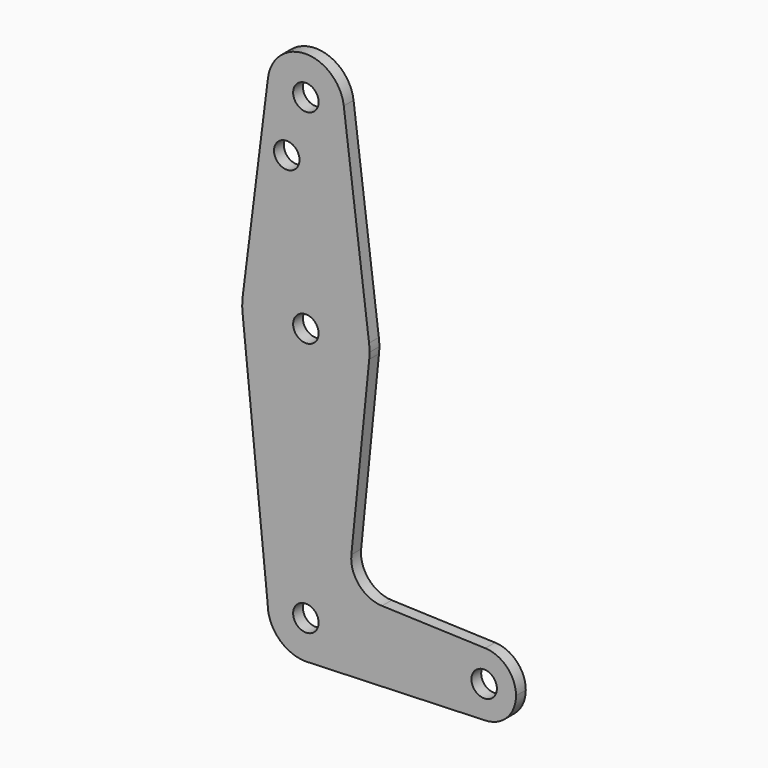
from build123d import *

# Parameters (mm, degrees)
F0_R     = 3.175
F1_DEPTH = 3.048


with BuildPart() as f1:
    # F0 (on Front) → F1 (new body)
    with BuildSketch(Plane.XZ):
        with BuildLine():
            ThreePointArc((9.4502929642, 115.490625), (0, 123.825), (-9.4502929642, 115.490625))
            ThreePointArc((-9.4502929642, 115.490625), (-0.596483242, 104.7936951058), (9.525, 114.3))
            ThreePointArc((9.525, 114.3), (9.5063048942, 114.896483242), (9.4502929642, 115.490625))
        make_face()
        with Locations((0, 114.3)):
            Circle(F0_R, mode=Mode.SUBTRACT)
        with BuildLine():
            Line((-9.4502929642, 115.490625), (-15.7504882737, 65.484375))
            ThreePointArc((-15.7504882737, 65.484375), (0, 79.375), (15.7504882737, 65.484375))
            Line((15.7504882737, 65.484375), (9.4502929642, 115.490625))
            ThreePointArc((9.4502929642, 115.490625), (9.5063048942, 114.896483242), (9.525, 114.3))
            ThreePointArc((9.525, 114.3), (-0.596483242, 104.7936951058), (-9.4502929642, 115.490625))
        make_face()
        with Locations((-4.7625, 100.0252)):
            Circle(F0_R, mode=Mode.SUBTRACT)
        with BuildLine():
            ThreePointArc((-15.7504882737, 65.484375), (-15.8738192656, 63.6936154008), (-15.7942028036, 61.9003804205))
            ThreePointArc((-15.7942028036, 61.9003804205), (0.0060905531, 47.6250011683), (15.7954255641, 61.9125))
            ThreePointArc((15.7954255641, 61.9125), (15.8550939106, 62.7052534459), (15.875, 63.5))
            ThreePointArc((15.875, 63.5), (15.8438414904, 64.4941387366), (15.7504882737, 65.484375))
            ThreePointArc((15.7504882737, 65.484375), (0, 79.375), (-15.7504882737, 65.484375))
        make_face()
        with Locations((0, 63.5)):
            Circle(F0_R, mode=Mode.SUBTRACT)
        with BuildLine():
            ThreePointArc((-9.525, 0), (0, 9.525), (9.525, 0))
            ThreePointArc((9.525, 0), (6.9705567315, -6.4912990883), (0.6773435479, -9.500885786))
            Line((0.6773435479, -9.500885786), (44.7324052746, -7.9324746146))
            ThreePointArc((44.7324052746, -7.9324746146), (36.5125000183, 0.0005387766), (44.7334821429, 7.9324362036))
            Line((44.7334821429, 7.9324362036), (18.9676000005, 8.8532337108))
            ThreePointArc((18.9676000005, 8.8532337108), (13.2611998974, 11.5713591498), (11.3411865923, 17.5933818124))
            Line((11.3411865923, 17.5933818124), (15.7954255641, 61.9125))
            ThreePointArc((15.7954255641, 61.9125), (0.0060905531, 47.6250011683), (-15.7942028036, 61.9003804205))
            Line((-15.7942028036, 61.9003804205), (-9.525, 0))
        make_face()
        with BuildLine():
            ThreePointArc((0.6773435479, -9.500885786), (6.9705567315, -6.4912990883), (9.525, 0))
            ThreePointArc((9.525, 0), (0, 9.525), (-9.525, 0))
            ThreePointArc((-9.525, 0), (-6.7351920908, -6.7351920908), (0, -9.525))
            Line((0, -9.525), (0.6773435479, -9.500885786))
        make_face()
        Circle(F0_R, mode=Mode.SUBTRACT)
        with BuildLine():
            ThreePointArc((44.7334821429, 7.9324362036), (36.5125000183, 0.0005387766), (44.7324052746, -7.9324746146))
            ThreePointArc((44.7324052746, -7.9324746146), (50.1616327839, -5.5119104847), (52.3875, 0))
            ThreePointArc((52.3875, 0), (50.1620069047, 5.5115227815), (44.7334821429, 7.9324362036))
        make_face()
        with Locations((44.45, 0)):
            Circle(F0_R, mode=Mode.SUBTRACT)
        with BuildLine():
            ThreePointArc((0, -9.525), (0.3388863295, -9.5189695375), (0.6773435479, -9.500885786))
            Line((0.6773435479, -9.500885786), (0, -9.525))
        make_face()
    extrude(amount=F1_DEPTH)


solid = f1.part
